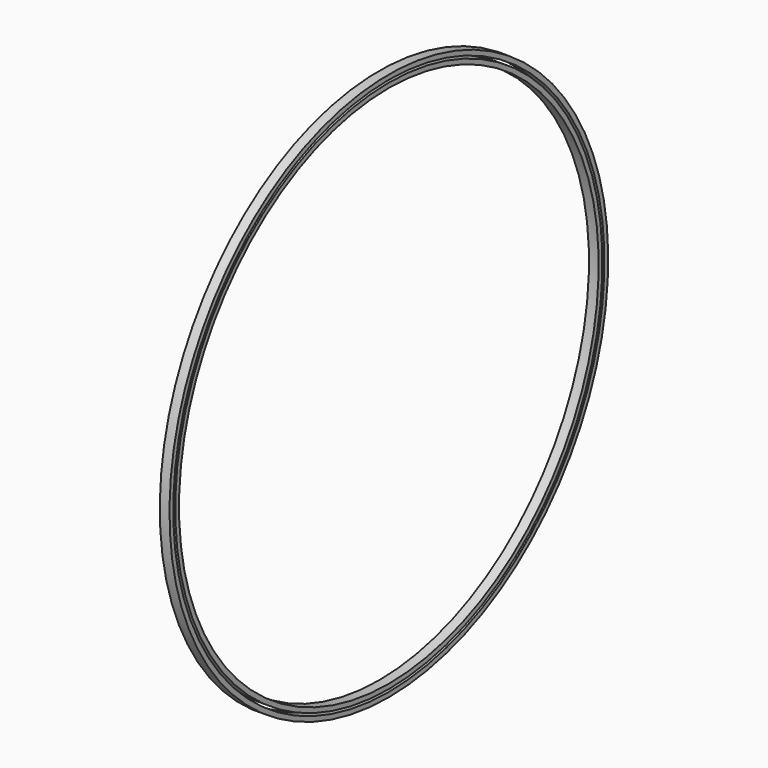
from build123d import *


with BuildPart() as f2:
    # F0 (on Front) → F2 (revolve)
    with BuildSketch(Plane.XZ):
        Polygon((-2.6273, -3.688777), (-27.355922, -3.833631), (-27.355922, -8.30999), (-6.71252, -8.30999), (-6.71252, -11.786773), (-27.269002, -11.786773), (-27.269002, -15.741615), (-2.6273, -15.741615), align=None)
        Polygon((-2.6273, 14.725073), (-27.355922, 14.580219), (-27.355922, 10.10386), (-6.71252, 10.10386), (-6.71252, 6.627077), (-27.269002, 6.627077), (-27.269002, 2.672235), (-2.6273, 2.672235), align=None)
    revolve(axis=Axis((85.245654, 0, 683.119774), (1, 0, 0)))


solid = f2.part
